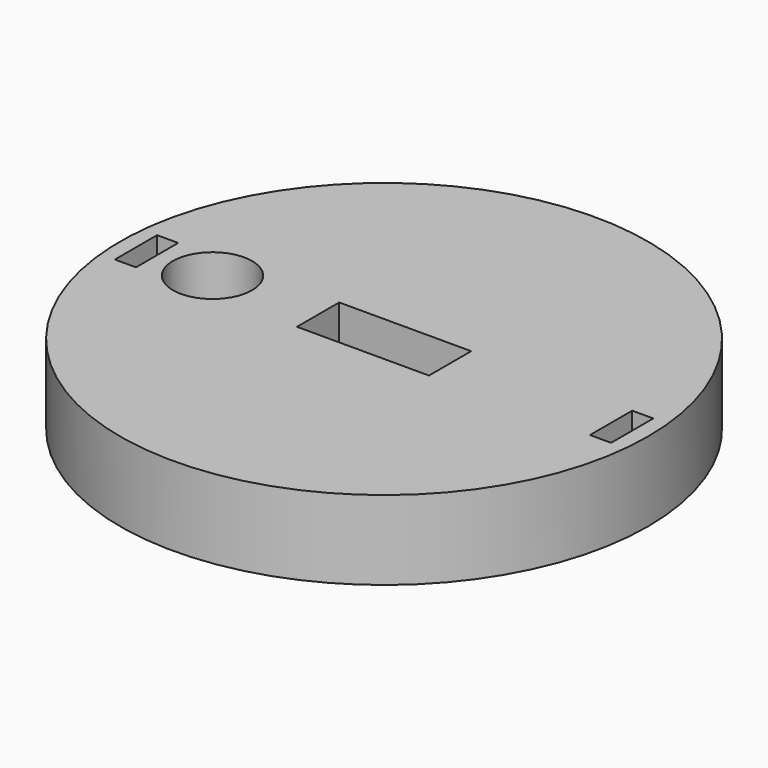
from build123d import *

# Parameters (mm, degrees)
F0_R     = 10
F0_W     = 0.8
F0_H     = 2
F0_R_2   = 1.5
F0_W_2   = 5
F1_DEPTH = 3
F2_DEPTH = 1.5


with BuildPart() as f1:
    # F0 (on Top) → F1 (new body)
    with BuildSketch(Plane.XY):
        Circle(F0_R)
        with Locations((-9, 0)):
            Rectangle(F0_W, F0_H, mode=Mode.SUBTRACT)
        with Locations((-6.5, 0)):
            Circle(F0_R_2, mode=Mode.SUBTRACT)
        Rectangle(F0_W_2, F0_H, mode=Mode.SUBTRACT)
        with Locations((9, 0)):
            Rectangle(F0_W, F0_H, mode=Mode.SUBTRACT)
    extrude(amount=F1_DEPTH)

    # F0 (on Top) → F2 (join)
    with BuildSketch(Plane.XY):
        with Locations((-9, 0)):
            Rectangle(F0_W, F0_H)
        with Locations((9, 0)):
            Rectangle(F0_W, F0_H)
    extrude(amount=F2_DEPTH)


solid = f1.part
